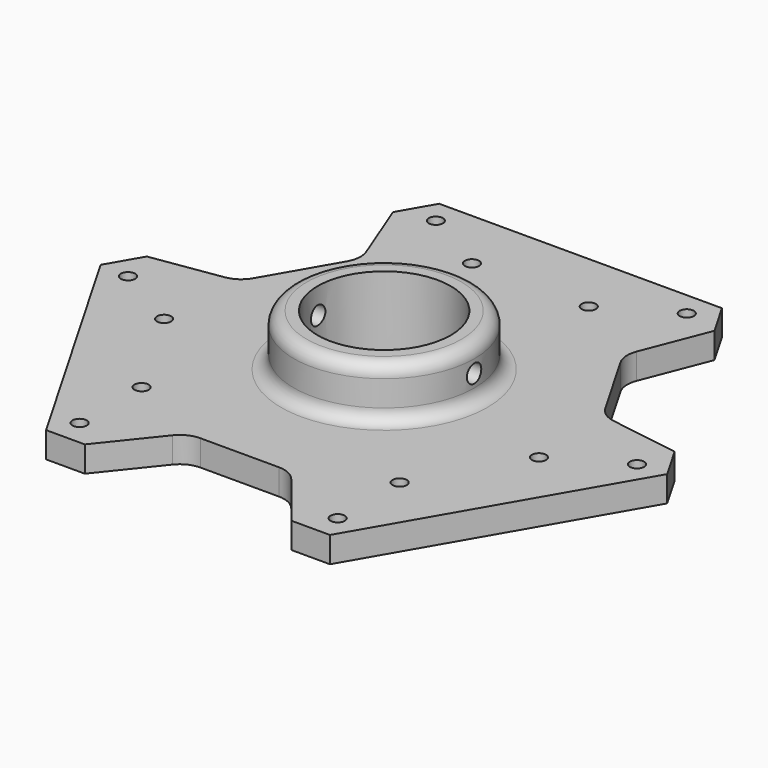
from build123d import *

# Parameters (mm, degrees)
SKETCH011_R        = 25.8
PAD007_DEPTH       = 10
SKETCH012_R        = 2.75
POCKET003_DEPTH    = 591.2062275863
POLARPATTERN_COUNT = 3
SKETCH_R           = 35
SKETCH_R_2         = 25.8
PAD_DEPTH          = 20
FILLET_R           = 5
SKETCH013_R        = 3.5
POCKET_DEPTH       = 109.7734133595
POCKET_DEPTH_BACK  = 109.7734133595
FILLET001_R        = 10


with BuildPart() as part:
    # Sketch011 → Pad007 (new body)
    with BuildSketch(Plane.XY):
        Polygon((-54.7724133595, 95.1313972081), (-109.7724133595, -0.1313972081), (-55, -95), (55, -95), (109.7724133595, -0.1313972081), (54.7724133595, 95.1313972081), align=None)
        Circle(SKETCH011_R, mode=Mode.SUBTRACT)
    extrude(amount=PAD007_DEPTH)

    # Sketch012 → Pocket003 (cut, through all)
    with BuildSketch(Plane.XY):
        with Locations((-48.6121593217, 85.8012701892)):
            Circle(SKETCH012_R)
        with Locations((-98.6121593217, -0.8012701892)):
            Circle(SKETCH012_R)
        with Locations((-22.6313972081, 70.8012701892)):
            Circle(SKETCH012_R)
        with Locations((-72.6313972081, -15.8012701892)):
            Circle(SKETCH012_R)
        Polygon((-62.2724133595, 82.1410161514), (-50.6217782649, 52.3205080757), (-70.6217782649, 17.6794919243), (-102.2724133595, 12.8589838486), align=None)
    pocket003 = extrude(amount=POCKET003_DEPTH, mode=Mode.SUBTRACT)

    # PolarPattern: Pocket003 ×3 about axis
    polarpattern_axis = Axis((0, 0, 0), (0, 0, 1))
    for i in range(1, POLARPATTERN_COUNT):
        add(pocket003.rotate(polarpattern_axis, i * 360 / POLARPATTERN_COUNT), mode=Mode.SUBTRACT)

    # Sketch (on Face5 of PolarPattern) → Pad (join)
    with BuildSketch(Plane.XY.offset(10)):
        Circle(SKETCH_R)
        Circle(SKETCH_R_2, mode=Mode.SUBTRACT)
    extrude(amount=PAD_DEPTH)

    # Fillet
    fillet_edges = [part.edges().sort_by_distance(p)[0] for p in [
        (-35, 0, 10),
        (-35, 0, 30),
    ]]
    fillet(fillet_edges, radius=FILLET_R)

    # Sketch013 (on DatumPlane) → Pocket (cut, two sides)
    with BuildSketch(Plane(origin=(0, 0, 15), x_dir=(0, 0, -1), z_dir=(1, 0, 0))) as pocket_sk:
        with Locations((-5, 0)):
            Circle(SKETCH013_R)
    extrude(amount=-POCKET_DEPTH, mode=Mode.SUBTRACT)
    extrude(pocket_sk.sketch, amount=POCKET_DEPTH_BACK, mode=Mode.SUBTRACT)

    # Fillet001
    fillet001_edges = [part.edges().sort_by_distance(p)[0] for p in [
        (20, -70, 5),
        (-20, -70, 5),
        (50.621778, 52.320508, 5),
        (70.621778, 17.679492, 5),
        (-50.621778, 52.320508, 5),
        (-70.621778, 17.679492, 5),
    ]]
    fillet(fillet001_edges, radius=FILLET001_R)


solid = part.part
